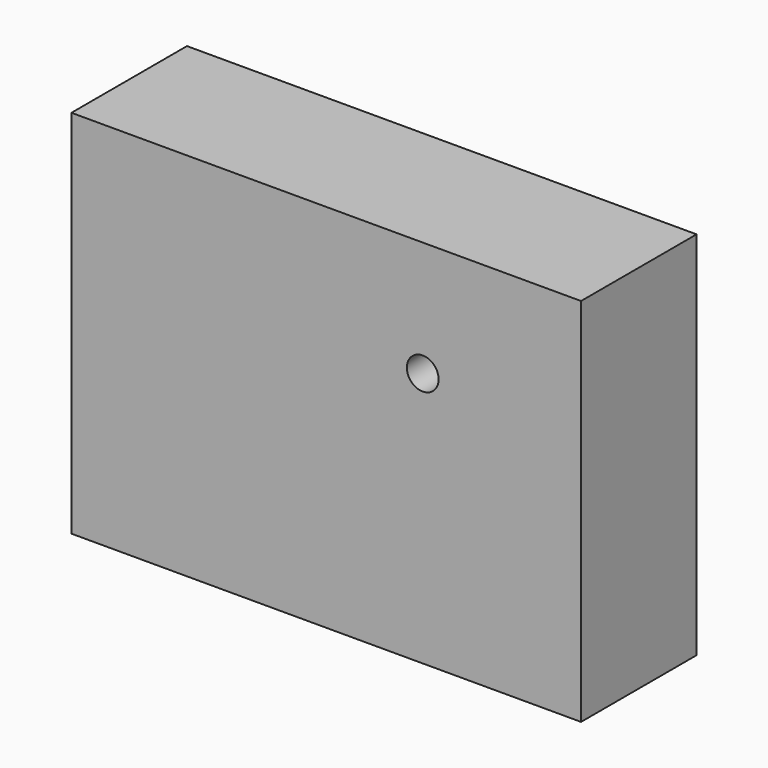
from build123d import *

# Parameters (mm, degrees)
F0_W     = 88.2218554616
F0_H     = 64.1476735473
F1_DEPTH = 25
F3_D     = 5.5


with BuildPart() as f1:
    # F0 (on Front) → F1 (new body)
    with BuildSketch(Plane.XZ):
        Rectangle(F0_W, F0_H)
    extrude(amount=F1_DEPTH)

    # F3 (through all)
    with Locations(Plane(origin=(0, 0, 0), x_dir=(-1, 0, 0), z_dir=(0, 1, 0))):
        with Locations((-16.7026668787, 12.116025202)):
            Hole(F3_D / 2)


solid = f1.part
